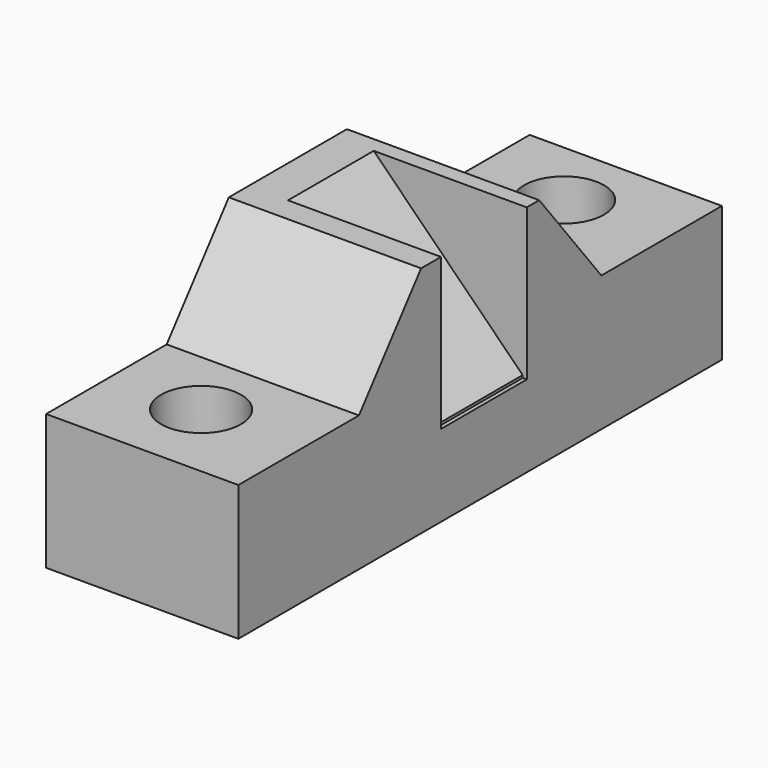
from build123d import *

# Parameters (mm, degrees)
F0_W     = 27.6901638135
F0_H     = 18.3629523963
F1_DEPTH = 36.068
F2_R     = 7.4938109385
F2_R_2   = 7.4938128
F3_DEPTH = 57.404
F4_W     = 20.1118043624
F4_H     = 29.0018040687
F5_DEPTH = 0.762
F6_SIZE  = 27.94


with BuildPart() as f1:
    # F0 (on Right) → F1 (new body)
    with BuildSketch(Plane.YZ):
        Polygon((-35.5600006878, 10.0559014827), (-63.8331216878, 10.0559014827), (-63.8331216878, -15.3440985173), (49.550820142, -15.3440985173), (49.550820142, 10.0559014827), (21.2777052075, 10.0559014827), (6.7039346322, 28.418853879), (6.7039346322, 10.0559014827), (-20.9862291813, 10.0559014827), (-20.9862291813, 28.418853879), align=None)
        with Locations((-7.1411472745, 19.2373776808)):
            Rectangle(F0_W, F0_H)
    extrude(amount=-F1_DEPTH)

    # F2 (on Top) → F3 (cut)
    with BuildSketch(Plane.XY):
        with Locations((-19.2373786122, -48.5306568444)):
            Circle(F2_R)
        with Locations((-19.2373786122, 36.5801639855)):
            Circle(F2_R_2)
    extrude(amount=F3_DEPTH, mode=Mode.SUBTRACT)

    # F4 (on Right) → F5 (cut)
    with BuildSketch(Plane.YZ):
        with Locations((-6.2667217571, 14.5009020343)):
            Rectangle(F4_W, F4_H)
    extrude(amount=-F5_DEPTH, mode=Mode.SUBTRACT)

    # F6
    f6_edges = [f1.edges().sort_by_distance(p)[0] for p in [
        (-0.762, -6.266722, 28.418854),
    ]]
    chamfer(f6_edges, length=F6_SIZE)


solid = f1.part
